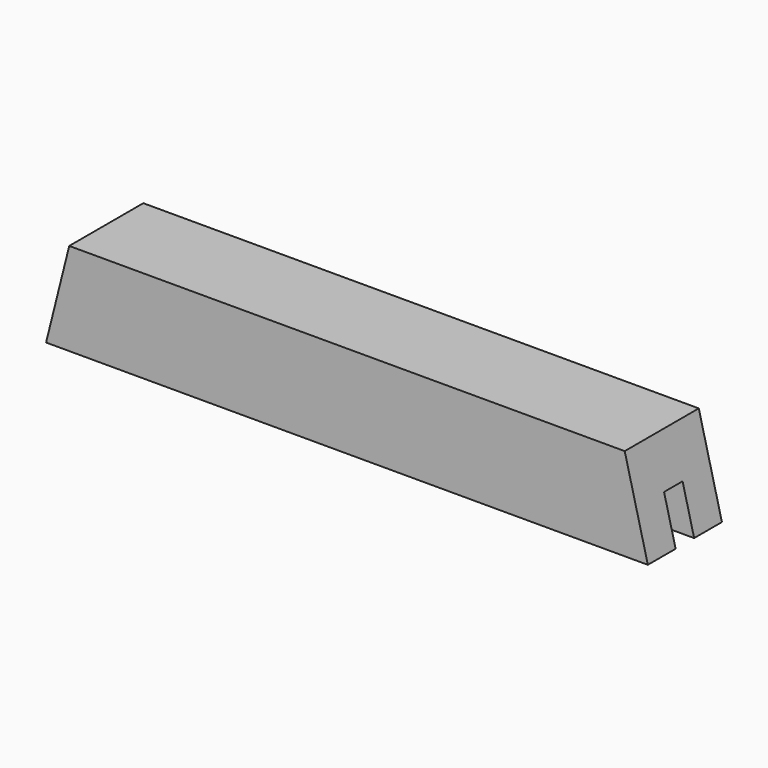
from build123d import *

# Parameters (mm, degrees)
F1_DEPTH = 152.4
F2_W     = 203.2
F2_H     = 38.1
F3_DEPTH = 76.2


with BuildPart() as f1:
    # F0 (on Front) → F1 (new body)
    with BuildSketch(Plane.XZ):
        Polygon((457.2, 76.2), (-457.2, 76.2), (-495.3, -76.2), (495.3, -76.2), align=None)
    extrude(amount=F1_DEPTH)

    # F2 (on face) → F3 (cut)
    with BuildSketch(Plane(origin=(0, 0, -76.2), x_dir=(1, 0, 0), z_dir=(0, 0, -1))):
        with Locations((-393.7, 76.2)):
            Rectangle(F2_W, F2_H)
        with Locations((393.7, 76.2)):
            Rectangle(F2_W, F2_H)
    extrude(amount=-F3_DEPTH, mode=Mode.SUBTRACT)


solid = f1.part
